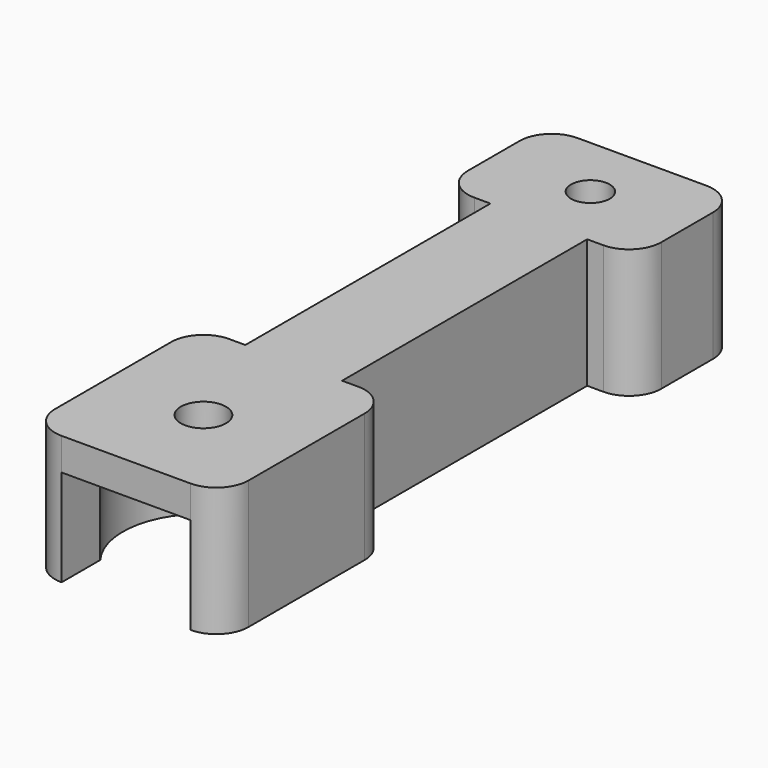
from build123d import *

# Parameters (mm, degrees)
F0_W      = 30
F0_H      = 100
F1_DEPTH  = 20
F2_R      = 12.5
F3_DEPTH  = 15
F4_R      = 3.5
F5_DEPTH  = 20
F6_R      = 3
F7_DEPTH  = 20
F8_W      = 7.5
F8_H      = 47.5
F9_DEPTH  = 20
F10_W     = 7.5
F10_H     = 47.5
F11_DEPTH = 20
F12_R     = 5
F13_R     = 5
F14_W     = 19.995708
F14_H     = 15
F15_DEPTH = 15


with BuildPart() as f1:
    # F0 (on Top) → F1 (new body)
    with BuildSketch(Plane.XY):
        with Locations((15, 50)):
            Rectangle(F0_W, F0_H)
    extrude(amount=F1_DEPTH)

    # F2 (on Top) → F3 (cut)
    with BuildSketch(Plane.XY):
        with Locations((15, 15)):
            Circle(F2_R)
    extrude(amount=F3_DEPTH, mode=Mode.SUBTRACT)

    # F4 (on Top) → F5 (cut)
    with BuildSketch(Plane.XY):
        with Locations((15, 15)):
            Circle(F4_R)
    extrude(amount=F5_DEPTH, mode=Mode.SUBTRACT)

    # F6 (on Top) → F7 (cut)
    with BuildSketch(Plane.XY):
        with Locations((15, 90)):
            Circle(F6_R)
    extrude(amount=F7_DEPTH, mode=Mode.SUBTRACT)

    # F8 (on Top) → F9 (cut)
    with BuildSketch(Plane.XY):
        with Locations((3.75, 56.25)):
            Rectangle(F8_W, F8_H)
    extrude(amount=F9_DEPTH, mode=Mode.SUBTRACT)

    # F10 (on Top) → F11 (cut)
    with BuildSketch(Plane.XY):
        with Locations((26.25, 56.25)):
            Rectangle(F10_W, F10_H)
    extrude(amount=F11_DEPTH, mode=Mode.SUBTRACT)

    # F12
    f12_edges = [f1.edges().sort_by_distance(p)[0] for p in [
        (30, 32.5, 10),
        (30, 0, 10),
        (0, 0, 10),
        (0, 32.5, 10),
    ]]
    fillet(f12_edges, radius=F12_R)

    # F13
    f13_edges = [f1.edges().sort_by_distance(p)[0] for p in [
        (0, 100, 10),
        (0, 80, 10),
        (30, 100, 10),
        (30, 80, 10),
    ]]
    fillet(f13_edges, radius=F13_R)

    # F14 (on Top) → F15 (cut)
    with BuildSketch(Plane.XY):
        with Locations((15.002146, 7.5)):
            Rectangle(F14_W, F14_H)
    extrude(amount=F15_DEPTH, mode=Mode.SUBTRACT)


solid = f1.part
